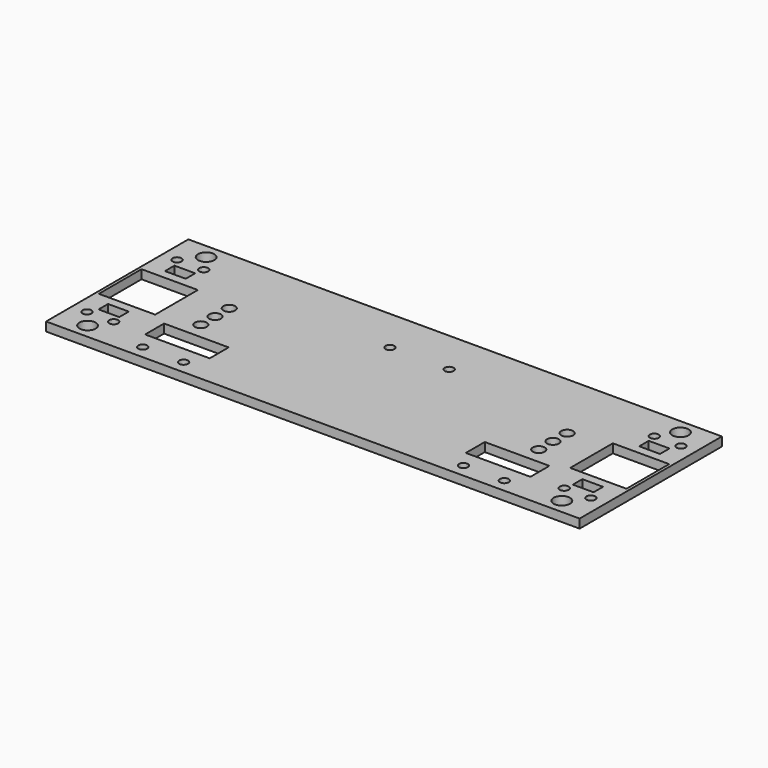
from build123d import *

# Parameters (mm, degrees)
SKETCH_W   = 90
SKETCH_H   = 60
SKETCH_R   = 2.75
SKETCH_R_2 = 2
SKETCH_R_3 = 1.5
SKETCH_W_2 = 7
SKETCH_H_2 = 4
SKETCH_W_3 = 19
SKETCH_H_3 = 18
SKETCH_W_4 = 21.8
SKETCH_H_4 = 8
PAD_DEPTH  = 3


with BuildPart() as part:
    # Sketch → Pad (new body)
    with BuildSketch(Plane.XY):
        with Locations((45, 30)):
            Rectangle(SKETCH_W, SKETCH_H)
        with Locations((10, 5)):
            Circle(SKETCH_R, mode=Mode.SUBTRACT)
        with Locations((33, 24)):
            Circle(SKETCH_R_2, mode=Mode.SUBTRACT)
        with Locations((33, 36)):
            Circle(SKETCH_R_2, mode=Mode.SUBTRACT)
        with Locations((33, 30)):
            Circle(SKETCH_R_2, mode=Mode.SUBTRACT)
        with Locations((10, 55)):
            Circle(SKETCH_R, mode=Mode.SUBTRACT)
        with Locations((14, 11)):
            Circle(SKETCH_R_3, mode=Mode.SUBTRACT)
        with Locations((5, 11)):
            Circle(SKETCH_R_3, mode=Mode.SUBTRACT)
        with Locations((14, 49)):
            Circle(SKETCH_R_3, mode=Mode.SUBTRACT)
        with Locations((5, 49)):
            Circle(SKETCH_R_3, mode=Mode.SUBTRACT)
        with Locations((80, 45)):
            Circle(SKETCH_R_3, mode=Mode.SUBTRACT)
        with Locations((29, 4.5)):
            Circle(SKETCH_R_3, mode=Mode.SUBTRACT)
        with Locations((42.8, 4.5)):
            Circle(SKETCH_R_3, mode=Mode.SUBTRACT)
        with Locations((10, 16)):
            Rectangle(SKETCH_W_2, SKETCH_H_2, mode=Mode.SUBTRACT)
        with Locations((10, 44)):
            Rectangle(SKETCH_W_2, SKETCH_H_2, mode=Mode.SUBTRACT)
        with Locations((10.5, 30)):
            Rectangle(SKETCH_W_3, SKETCH_H_3, mode=Mode.SUBTRACT)
        with Locations((35.9, 14.5)):
            Rectangle(SKETCH_W_4, SKETCH_H_4, mode=Mode.SUBTRACT)
    pad = extrude(amount=PAD_DEPTH)

    # Mirrored: Pad across face of Pad
    add(pad.mirror(Plane(origin=(90, 30, 1.5), x_dir=(0, 1, 0), z_dir=(1, 0, 0))))


solid = part.part
